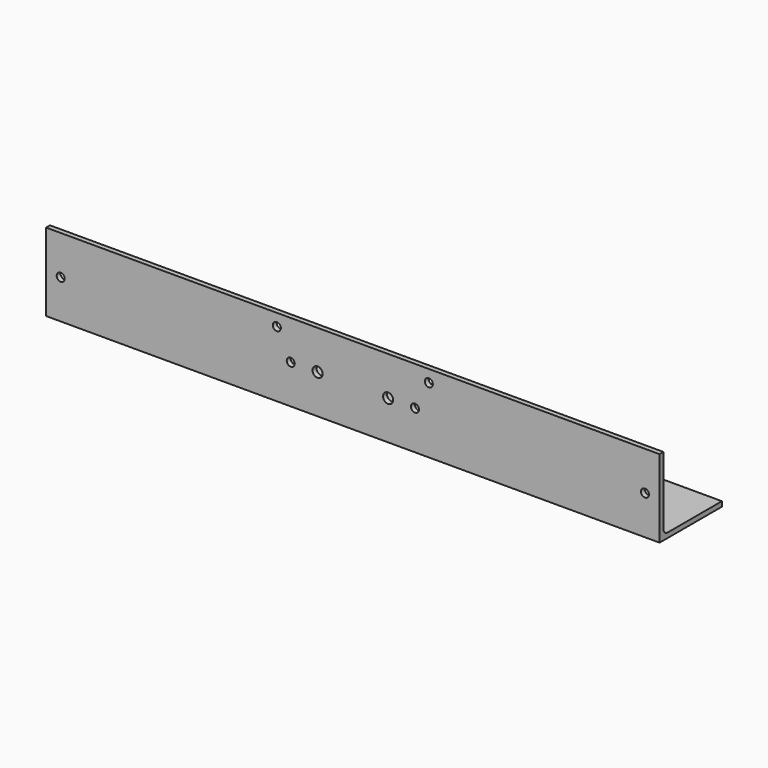
from build123d import *

# Parameters (mm, degrees)
F1_DEPTH = 400.05
F2_R     = 2.6162
F2_R_2   = 3.302
F3_DEPTH = 3.176


with BuildPart() as f1:
    # F0 (on Right) → F1 (new body)
    with BuildSketch(Plane.YZ):
        with BuildLine():
            Line((0, -44.45), (0, 0))
            Line((0, 0), (-3.175, 0))
            Line((-3.175, 0), (-3.175, -50.8))
            Line((-3.175, -50.8), (47.625, -50.8))
            Line((47.625, -50.8), (47.625, -47.625))
            Line((47.625, -47.625), (3.175, -47.625))
            ThreePointArc((3.175, -47.625), (0.929936, -46.695064), (0, -44.45))
        make_face()
    extrude(amount=-F1_DEPTH)

    # F2 (on face) → F3 (cut, through all)
    with BuildSketch(Plane(origin=(0, 0, 0), x_dir=(-1, 0, 0), z_dir=(0, 1, 0))):
        with Locations((9.525, -25.4)):
            Circle(F2_R)
        with Locations((390.525, -25.4)):
            Circle(F2_R)
        with Locations((159.5374, -25.4)):
            Circle(F2_R)
        with Locations((240.5126, -25.4)):
            Circle(F2_R)
        with Locations((223.0247, -25.4)):
            Circle(F2_R_2)
        with Locations((177.0253, -25.4)):
            Circle(F2_R_2)
        with Locations((249.5931, -7.9375)):
            Circle(F2_R)
        with Locations((150.4696, -7.9375)):
            Circle(F2_R)
    extrude(amount=-F3_DEPTH, mode=Mode.SUBTRACT)


solid = f1.part
